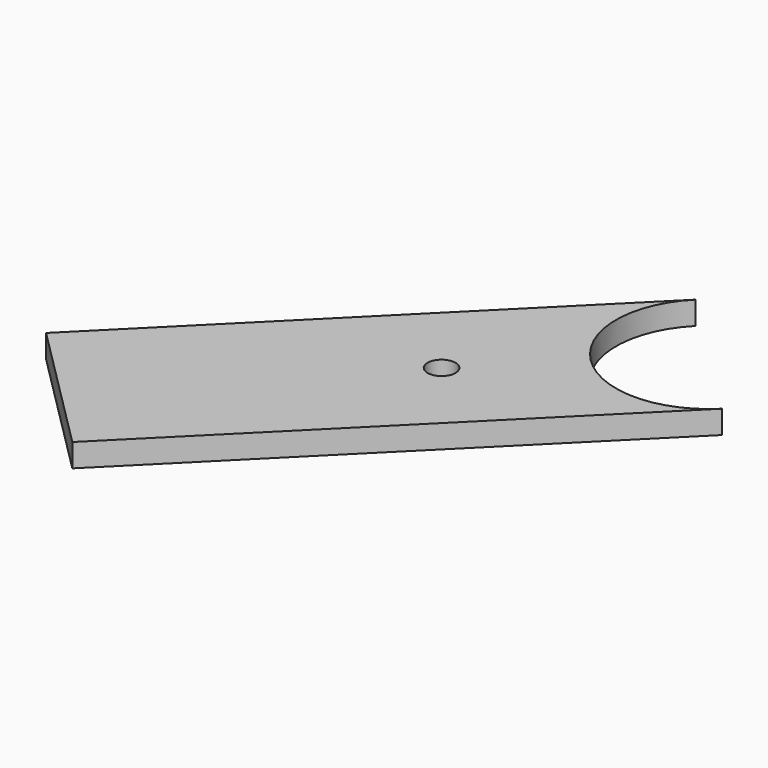
from build123d import *

# Parameters (mm, degrees)
SKETCH010_AS_DRAWN_R                      = 3
EXTRUDE009_DEPTH                          = 40
EXTRUDE009_ONTO_SKETCH010_PLACEMENT_ANGLE = 9
EXTRUDE001_DEPTH                          = 5
EXTRUDE001_PLACEMENT_ANGLE                = 45


with BuildPart() as extrude009:
    # Sketch010 as drawn → Extrude009 (new)
    with BuildSketch(Plane.XY):
        Circle(SKETCH010_AS_DRAWN_R)
    extrude(amount=-EXTRUDE009_DEPTH)


with BuildPart() as extrude009_1:
    # Extrude009 onto Sketch010 placement: moved
    add(extrude009.part.moved(Location((-32, -32, 30))).rotate(Axis((-32, -32, 30), (0, 0, -1)), EXTRUDE009_ONTO_SKETCH010_PLACEMENT_ANGLE))


with BuildPart() as cut003:
    # Sketch001 (on Face7 of Extrude) → Extrude001 (new body)
    with BuildSketch(Plane(origin=(0, 0, 0), x_dir=(1, 0, 0), z_dir=(0, 0, -1))):
        with BuildLine():
            Line((20, 0), (20, 110))
            Line((20, 110), (-20, 110))
            Line((-20, 110), (-20, 0))
            ThreePointArc((20, 0), (0, 20), (-20, 0))
        make_face()
    extrude(amount=-EXTRUDE001_DEPTH)


with BuildPart() as cut003_1:
    # Extrude001 placement: moved
    add(cut003.part.rotate(Axis((0, 0, 0), (0, 0, -1)), EXTRUDE001_PLACEMENT_ANGLE))

    # Cut003: cut Extrude009
    add(extrude009_1.part, mode=Mode.SUBTRACT)


solid = cut003_1.part
